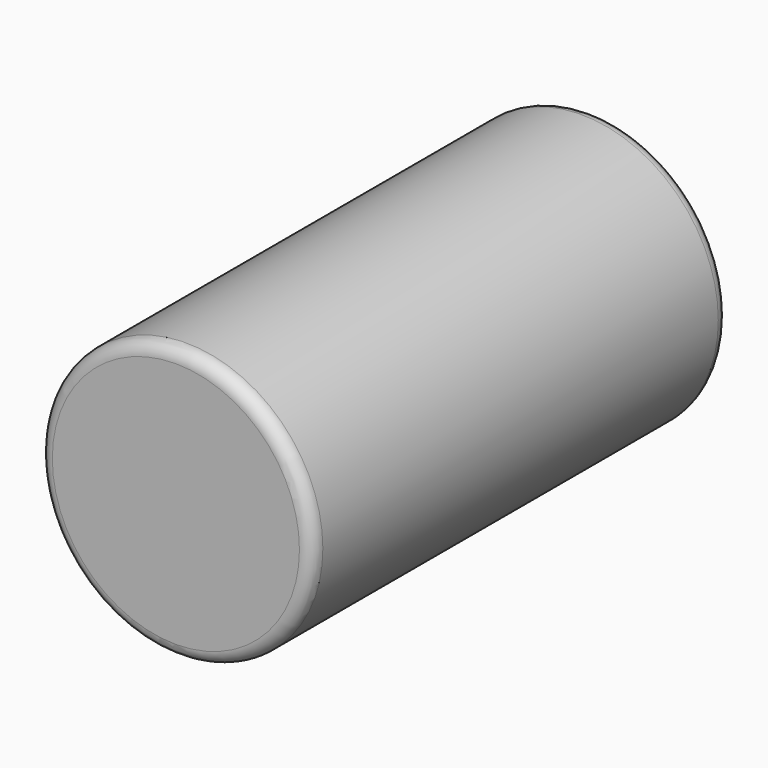
from build123d import *

# Parameters (mm, degrees)
F0_R     = 66.675
F1_DEPTH = 254
F2_R     = 6.35


with BuildPart() as f1:
    # F0 (on Front) → F1 (new body)
    with BuildSketch(Plane.XZ):
        Circle(F0_R)
    extrude(amount=F1_DEPTH)

    # F2
    f2_edges = [f1.edges().sort_by_distance(p)[0] for p in [
        (-66.675, -254, 0),
        (66.675, -127, 0),
        (-66.675, 0, 0),
    ]]
    fillet(f2_edges, radius=F2_R)


solid = f1.part
